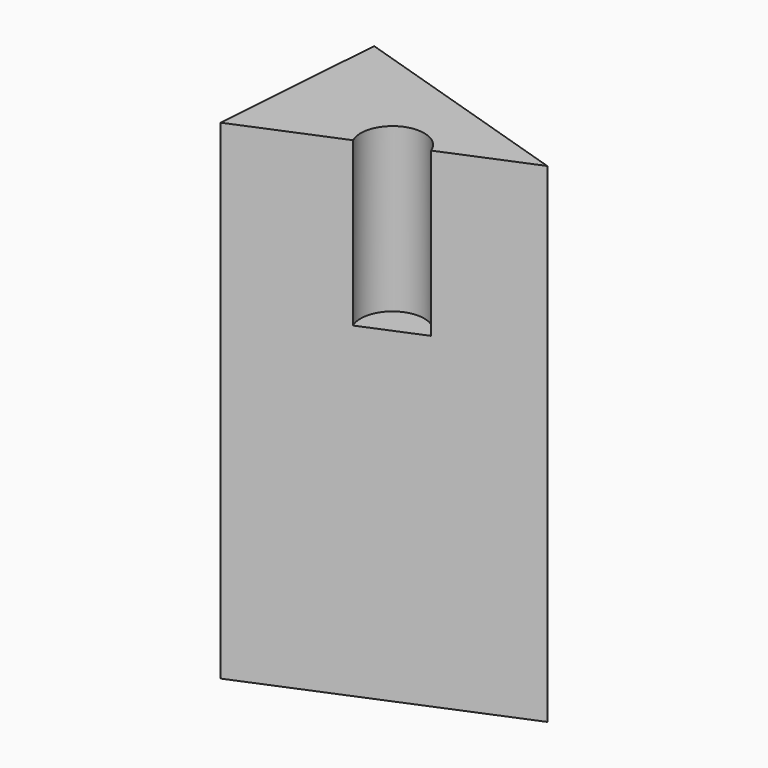
from build123d import *

# Parameters (mm, degrees)
CIRCLE_R              = 1.944096
EXTRUDE010_DEPTH      = 100
EXTRUDE008_DEPTH      = 10
EXTRUDE008_DEPTH_BACK = 20


with BuildPart() as extrude010:
    # Circle → Extrude010 (new body)
    with BuildSketch(Plane(origin=(-34.648671, 4.568851, 0), x_dir=(1, 0, 0), z_dir=(0, 0, 1))):
        Circle(CIRCLE_R)
    extrude(amount=EXTRUDE010_DEPTH)


with BuildPart() as cut:
    # Wire002 → Extrude008 (new body, two sides)
    with BuildSketch(Plane(origin=(-41.728547, 12.01263, 0), x_dir=(1, 0, 0), z_dir=(0, 0, 1))) as extrude008_sk:
        Polygon((0, 0), (14.236612, -4.528044), (-0.775791, -10.787191), align=None)
    extrude(amount=EXTRUDE008_DEPTH)
    extrude(extrude008_sk.sketch, amount=-EXTRUDE008_DEPTH_BACK)

    # Cut: cut Extrude010
    add(extrude010.part, mode=Mode.SUBTRACT)


solid = cut.part
